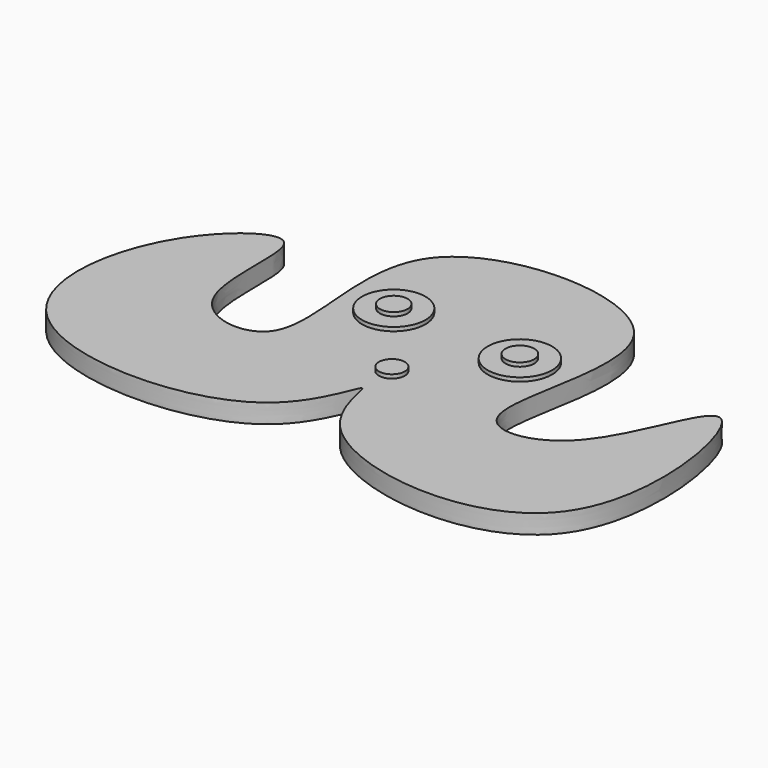
from build123d import *

# Parameters (mm, degrees)
F1_DEPTH  = 5
F2_R      = 8.4401570695
F3_DEPTH  = 1
F4_R      = 8.3018123318
F5_DEPTH  = 1
F6_R      = 3.6280306302
F7_DEPTH  = 2
F8_R      = 3.7580541328
F9_DEPTH  = 2
F10_R     = 3.3893435668
F11_DEPTH = 1


with BuildPart() as f1:
    # F0 (on Top) → F1 (new body)
    with BuildSketch(Plane.XY):
        with BuildLine():
            add(Edge.make_bspline(
                [(-70.3466460109, -6.5718041733), (-78.9049886752, -19.7140091868), (-84.9138762485, -63.0993123727), (-6.3368813846, -64.1212828592), (0.9446692075, -25.5085205919), (0.7569815935, -62.2995303888), (85.8690807735, -73.5347562149), (65.4131958228, 25.424783983), (54.0578644574, -32.0563623487), (17.7130725176, -35.345098284), (50.54839247, 30.8220193189), (-45.7469565601, 32.57336646), (-17.8872813036, -34.4841188982), (-56.6942698273, -29.4948318872), (-45.5221165827, 15.080248567), (-64.4530804258, 2.4783647925), (-70.3466460109, -6.5718041733)],
                knots=[0, 0, 0, 0, 0.0799728781, 0.1725274668, 0.2268966248, 0.2783451686, 0.3705039113, 0.4576190697, 0.5247171836, 0.5770049251, 0.6584775198, 0.7466381118, 0.8281560338, 0.8792097842, 0.9449279585, 1, 1, 1, 1], degree=3))
        make_face()
    extrude(amount=F1_DEPTH)

    # F2 (on face) → F3 (join)
    with BuildSketch(Plane.XY.offset(5)):
        with Locations((18.1323327124, -6.5718041733)):
            Circle(F2_R)
    extrude(amount=F3_DEPTH)

    # F4 (on face) → F5 (join)
    with BuildSketch(Plane.XY.offset(5)):
        with Locations((-15.8559363335, -5.3834030405)):
            Circle(F4_R)
    extrude(amount=F5_DEPTH)

    # F6 (on face) → F7 (join)
    with BuildSketch(Plane.XY.offset(5)):
        with Locations((-15.8559363335, -5.3834030405)):
            Circle(F6_R)
    extrude(amount=F7_DEPTH)

    # F8 (on face) → F9 (join)
    with BuildSketch(Plane.XY.offset(5)):
        with Locations((18.1323327124, -6.5718041733)):
            Circle(F8_R)
    extrude(amount=F9_DEPTH)

    # F10 (on face) → F11 (join)
    with BuildSketch(Plane.XY.offset(5)):
        with Locations((0, -25.8238986135)):
            Circle(F10_R)
    extrude(amount=F11_DEPTH)


solid = f1.part
